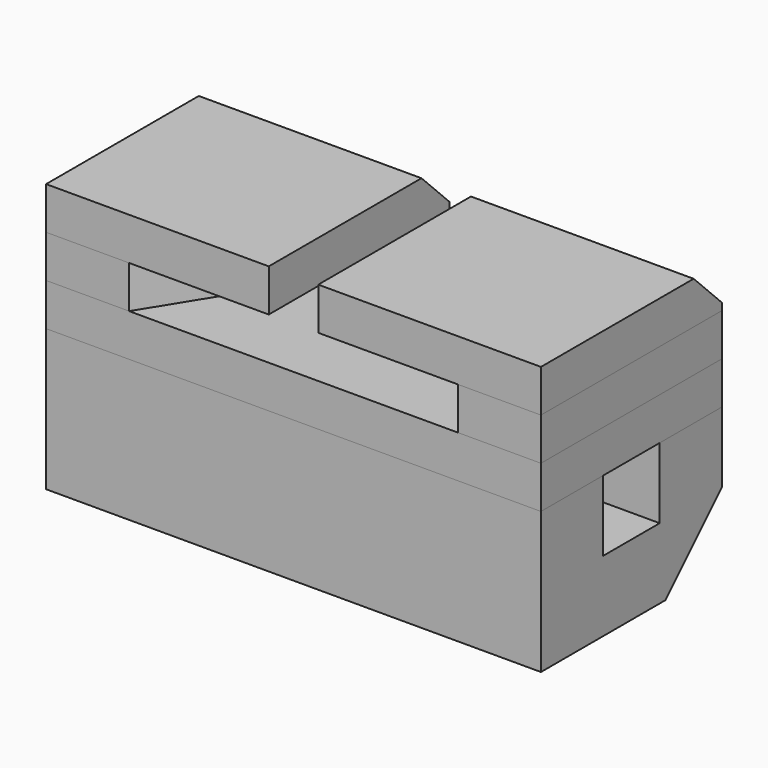
from build123d import *

# Parameters (mm, degrees)
F1_DEPTH = 12
F2_DEPTH = 6
F3_W     = 31.5
F3_H     = 6
F4_DEPTH = 16
F5_SIZE  = 5
F7_DEPTH = 35
F8_SIZE  = 10


with BuildPart() as f1:
    # F0 (on Top) → F1 (new body)
    with BuildSketch(Plane.XY):
        Polygon((-35, -16), (-23.25, -16), (-3.5, 16), (-35, 16), align=None)
        Polygon((23.25, -16), (35, -16), (35, 16), (3.5, 16), align=None)
    extrude(amount=F1_DEPTH)


with BuildPart() as f2:
    # F0 (on Top) → F2 (new body)
    with BuildSketch(Plane.XY):
        Polygon((23.25, -16), (35, -16), (35, 16), (3.5, 16), align=None)
        Polygon((-23.25, -16), (23.25, -16), (3.5, 16), (-3.5, 16), align=None)
        Polygon((-35, -16), (-23.25, -16), (-3.5, 16), (-35, 16), align=None)
    extrude(amount=F2_DEPTH)


with BuildPart() as f4:
    # F3 (on Front) → F4 (new body, symmetric)
    with BuildSketch(Plane.XZ):
        with Locations((-19.25, 15)):
            Rectangle(F3_W, F3_H)
        with Locations((19.25, 15)):
            Rectangle(F3_W, F3_H)
    extrude(amount=F4_DEPTH, both=True)

    # F5
    f5_edges = [f4.edges().sort_by_distance(p)[0] for p in [
        (-19.25, 16, 18),
        (19.25, 16, 18),
    ]]
    chamfer(f5_edges, length=F5_SIZE)


with BuildPart() as f7:
    # F6 (on Right) → F7 (new body, symmetric)
    with BuildSketch(Plane.YZ):
        Polygon((-5, 0), (-16, 0), (-16, -20), (16, -20), (16, 0), (5, 0), (5, -10), (-5, -10), align=None)
    extrude(amount=F7_DEPTH, both=True)

    # F8
    f8_edges = [f7.edges().sort_by_distance(p)[0] for p in [
        (0, 16, -20),
    ]]
    chamfer(f8_edges, length=F8_SIZE)


solid = Compound([f1.part, f2.part, f4.part, f7.part])
